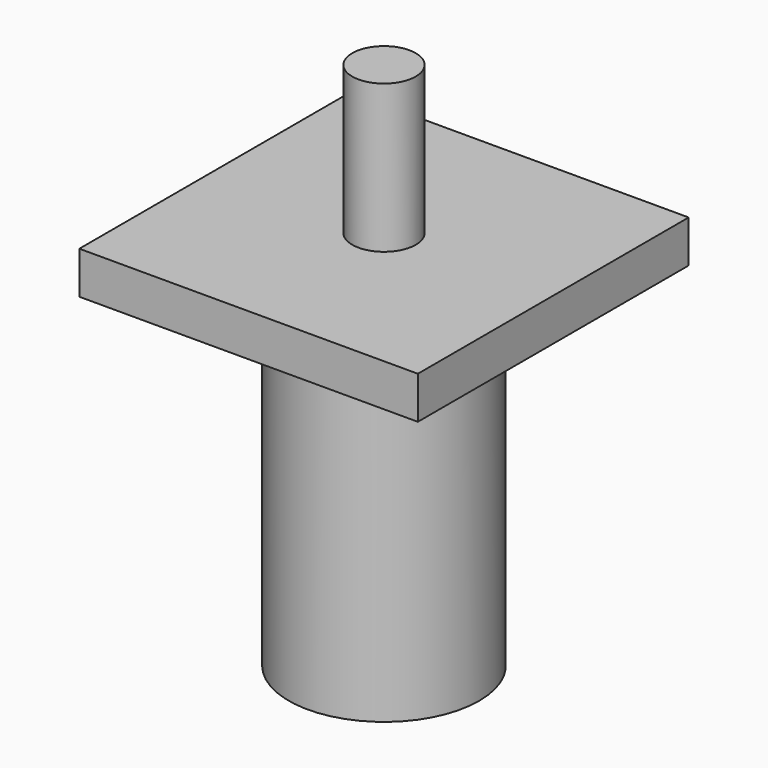
from build123d import *

# Parameters (mm, degrees)
F0_W     = 80
F0_H     = 80
F1_DEPTH = 10
F2_R     = 22.5
F3_DEPTH = 80
F4_R     = 7.5
F5_DEPTH = 35


with BuildPart() as f1:
    # F0 (on Top) → F1 (new body)
    with BuildSketch(Plane.XY):
        Rectangle(F0_W, F0_H)
    extrude(amount=-F1_DEPTH)

    # F2 (on face) → F3 (join)
    with BuildSketch(Plane(origin=(0, 0, -10), x_dir=(1, 0, 0), z_dir=(0, 0, -1))):
        Circle(F2_R)
    extrude(amount=F3_DEPTH)

    # F4 (on face) → F5 (join)
    with BuildSketch(Plane.XY):
        Circle(F4_R)
    extrude(amount=F5_DEPTH)


solid = f1.part
